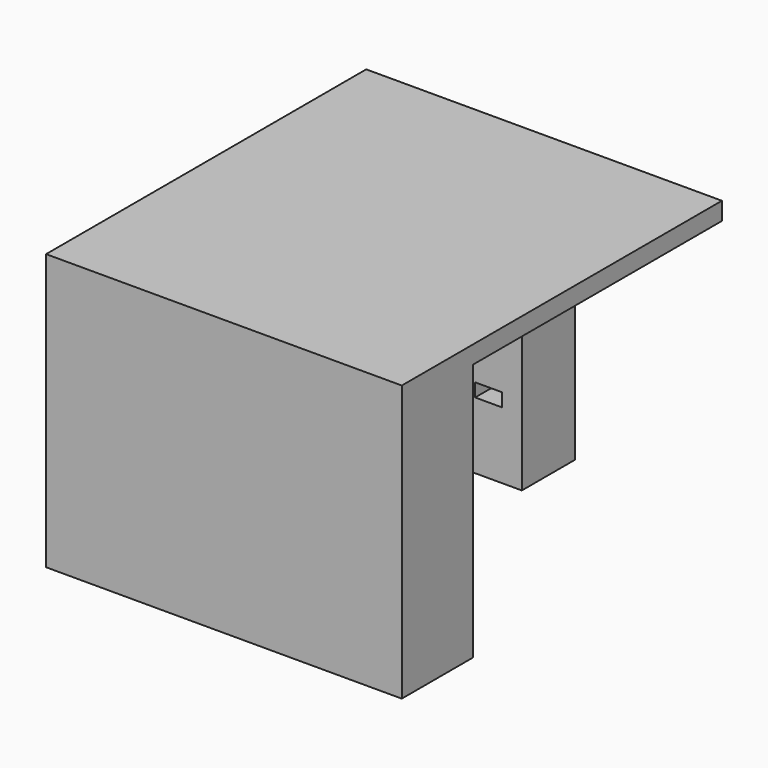
from build123d import *

# Parameters (mm, degrees)
BOX035_W          = 6
BOX035_H          = 15
BOX035_DEPTH      = 3
CYLINDER018_R     = 2
CYLINDER018_DEPTH = 50
BOX_W             = 15
BOX_H             = 15
BOX_DEPTH         = 58
BOX038_W          = 80
BOX038_H          = 5
BOX038_DEPTH      = 58
BOX039_W          = 80
BOX039_H          = 90
BOX039_DEPTH      = 4


with BuildPart() as nut_hole:
    # Box035 → Box035 (new body)
    with BuildSketch(Plane(origin=(-8.5, 5, 15), x_dir=(1, 0, 0), z_dir=(0, 0, 1))):
        with Locations((3, 7.5)):
            Rectangle(BOX035_W, BOX035_H)
    extrude(amount=BOX035_DEPTH)


with BuildPart() as cylinder:
    # Cylinder018 → Cylinder018 (new body)
    with BuildSketch(Plane(origin=(-5.5, 12, 0), x_dir=(1, 0, 0), z_dir=(0, 0, 1))):
        Circle(CYLINDER018_R)
    extrude(amount=CYLINDER018_DEPTH)


with BuildPart() as cut:
    # Box → Box (new body)
    with BuildSketch(Plane(origin=(-13, 5, 0), x_dir=(1, 0, 0), z_dir=(0, 0, 1))):
        with Locations((7.5, 7.5)):
            Rectangle(BOX_W, BOX_H)
    extrude(amount=BOX_DEPTH)

    # Cut: cut Cylinder
    add(cylinder.part, mode=Mode.SUBTRACT)


with BuildPart() as cut037:
    # Cut037 base: copy of Cut
    add(cut.part)

    # Cut037: cut Nut hole
    add(nut_hole.part, mode=Mode.SUBTRACT)


with BuildPart() as cut037_1:
    # Cut037 placement: moved
    add(cut037.part.moved(Location((-22, 0, 0))))


with BuildPart() as cut038:
    # Cut038 base: copy of Cut
    add(cut.part)

    # Cut038: cut Nut hole
    add(nut_hole.part, mode=Mode.SUBTRACT)


with BuildPart() as cut038_1:
    # Cut038 placement: moved
    add(cut038.part.moved(Location((43, 0, 0))))


with BuildPart() as extension_supports:
    # Cut039 base: copy of Cut
    add(cut.part)

    # Cut039: cut Nut hole
    add(nut_hole.part, mode=Mode.SUBTRACT)


with BuildPart() as extension_supports_1:
    # Cut039 placement: moved
    add(extension_supports.part.moved(Location((10, 70, 0))))

    # Fusion082: union Cut037, Cut038
    add(cut037_1.part)
    add(cut038_1.part)


with BuildPart() as cube002:
    # Box038 → Box038 (new body)
    with BuildSketch(Plane(origin=(-35, 0, 0), x_dir=(1, 0, 0), z_dir=(0, 0, 1))):
        with Locations((40, 2.5)):
            Rectangle(BOX038_W, BOX038_H)
    extrude(amount=BOX038_DEPTH)


with BuildPart() as fusion084:
    # Box039 → Box039 (new body)
    with BuildSketch(Plane(origin=(-35, 0, 58), x_dir=(1, 0, 0), z_dir=(0, 0, 1))):
        with Locations((40, 45)):
            Rectangle(BOX039_W, BOX039_H)
    extrude(amount=BOX039_DEPTH)

    # Fusion081: union Cube002
    add(cube002.part)

    # Fusion084: union Extension supports
    add(extension_supports_1.part)


solid = fusion084.part
